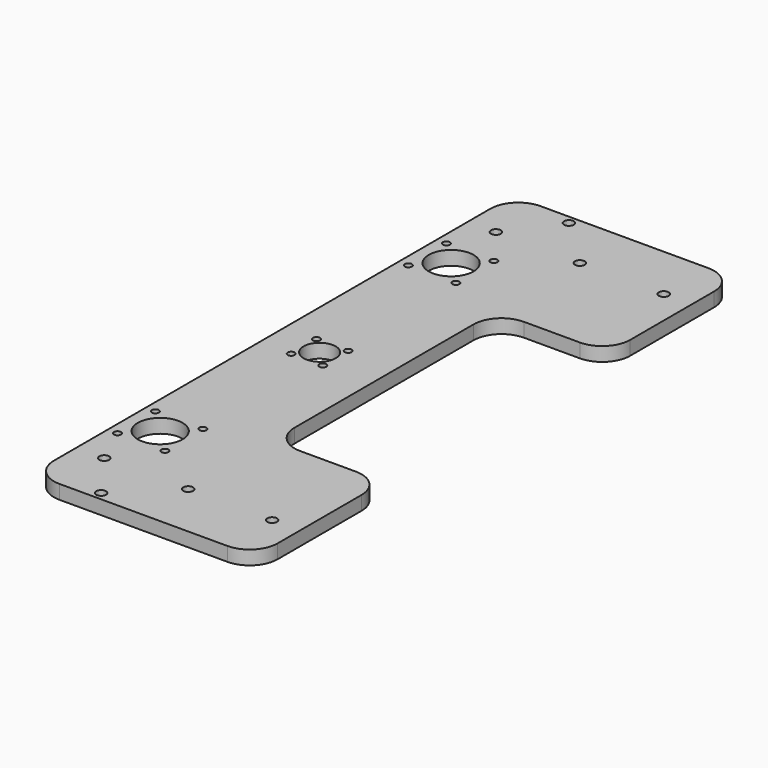
from build123d import *

# Parameters (mm, degrees)
PAD_DEPTH            = 5
SKETCH002_R          = 8
SKETCH002_R_2        = 1.25
POCKET_DEPTH         = 458.912756
POCKET_DEPTH_BACK    = 463.912756
SKETCH004_R          = 1.75
POCKET001_DEPTH      = 458.912756
POCKET001_DEPTH_BACK = 463.912756
SKETCH003_R          = 1.75
POCKET002_DEPTH      = 458.912756
POCKET002_DEPTH_BACK = 463.912756
SKETCH005_R          = 5.75
SKETCH005_R_2        = 1.25
POCKET003_DEPTH      = 0.001
POCKET003_DEPTH_BACK = 5.001


with BuildPart() as part:
    # Sketch001 → Pad (new body)
    with BuildSketch(Plane.XY):
        with BuildLine():
            Line((88, -97.5), (88, -60))
            ThreePointArc((88, -60), (85.071068, -52.928932), (78, -50))
            Line((58, -50), (78, -50))
            ThreePointArc((48, -40), (50.928932, -47.071068), (58, -50))
            Line((48, -40), (48, 40))
            ThreePointArc((58, 50), (50.928932, 47.071068), (48, 40))
            Line((58, 50), (78, 50))
            ThreePointArc((78, 50), (85.071068, 52.928932), (88, 60))
            Line((88, 97.5), (88, 60))
            ThreePointArc((88, 97.5), (85.071068, 104.571068), (78, 107.5))
            Line((18, 107.5), (78, 107.5))
            ThreePointArc((18, 107.5), (10.928932, 104.571068), (8, 97.5))
            Line((8, 97.5), (8, -97.5))
            ThreePointArc((8, -97.5), (10.928932, -104.571068), (18, -107.5))
            Line((18, -107.5), (78, -107.5))
            ThreePointArc((78, -107.5), (85.071068, -104.571068), (88, -97.5))
        make_face()
    extrude(amount=PAD_DEPTH)

    # Sketch002 → Pocket (cut, two sides)
    with BuildSketch(Plane.XY) as pocket_sk:
        with Locations((20, -65)):
            Circle(SKETCH002_R)
        with Locations((11.514719, -56.514719)):
            Circle(SKETCH002_R_2)
        with Locations((11.514719, -73.485281)):
            Circle(SKETCH002_R_2)
        with Locations((28.485281, -73.485281)):
            Circle(SKETCH002_R_2)
        with Locations((28.485281, -56.514719)):
            Circle(SKETCH002_R_2)
    pocket = extrude(amount=-POCKET_DEPTH, mode=Mode.SUBTRACT) + extrude(pocket_sk.sketch, amount=POCKET_DEPTH_BACK, mode=Mode.SUBTRACT)

    # Mirrored: Pocket across Sketch002 Axis6
    add(pocket.mirror(Plane(origin=(-25, 0, 0), x_dir=(0, 0, 1), z_dir=(0, 1, 0))), mode=Mode.SUBTRACT)

    # Sketch004 → Pocket001 (cut, two sides)
    with BuildSketch(Plane.XY) as pocket001_sk:
        with Locations((78, -87.5)):
            Circle(SKETCH004_R)
        with Locations((48, -87.5)):
            Circle(SKETCH004_R)
        with Locations((18, -87.5)):
            Circle(SKETCH004_R)
    pocket001 = extrude(amount=-POCKET001_DEPTH, mode=Mode.SUBTRACT) + extrude(pocket001_sk.sketch, amount=POCKET001_DEPTH_BACK, mode=Mode.SUBTRACT)

    # Mirrored001: Pocket001 across Sketch004 Axis0
    add(pocket001.mirror(Plane(origin=(-25, 0, 0), x_dir=(0, 0, 1), z_dir=(0, 1, 0))), mode=Mode.SUBTRACT)

    # Sketch003 → Pocket002 (cut, two sides)
    with BuildSketch(Plane.XY) as pocket002_sk:
        with Locations((30.5, -104.5)):
            Circle(SKETCH003_R)
    pocket002 = extrude(amount=-POCKET002_DEPTH, mode=Mode.SUBTRACT) + extrude(pocket002_sk.sketch, amount=POCKET002_DEPTH_BACK, mode=Mode.SUBTRACT)

    # Mirrored002: Pocket002 across Sketch003 Axis0
    add(pocket002.mirror(Plane(origin=(-25, 0, 0), x_dir=(0, 0, 1), z_dir=(0, 1, 0))), mode=Mode.SUBTRACT)

    # Sketch005 → Pocket003 (cut, two sides)
    with BuildSketch(Plane.XY) as pocket003_sk:
        with Locations((25, 0)):
            Circle(SKETCH005_R)
        with Locations((30.656854, -5.656854)):
            Circle(SKETCH005_R_2)
        with Locations((30.656854, 5.656854)):
            Circle(SKETCH005_R_2)
        with Locations((19.343146, 5.656854)):
            Circle(SKETCH005_R_2)
        with Locations((19.343146, -5.656854)):
            Circle(SKETCH005_R_2)
    extrude(amount=-POCKET003_DEPTH, mode=Mode.SUBTRACT)
    extrude(pocket003_sk.sketch, amount=POCKET003_DEPTH_BACK, mode=Mode.SUBTRACT)


solid = part.part
